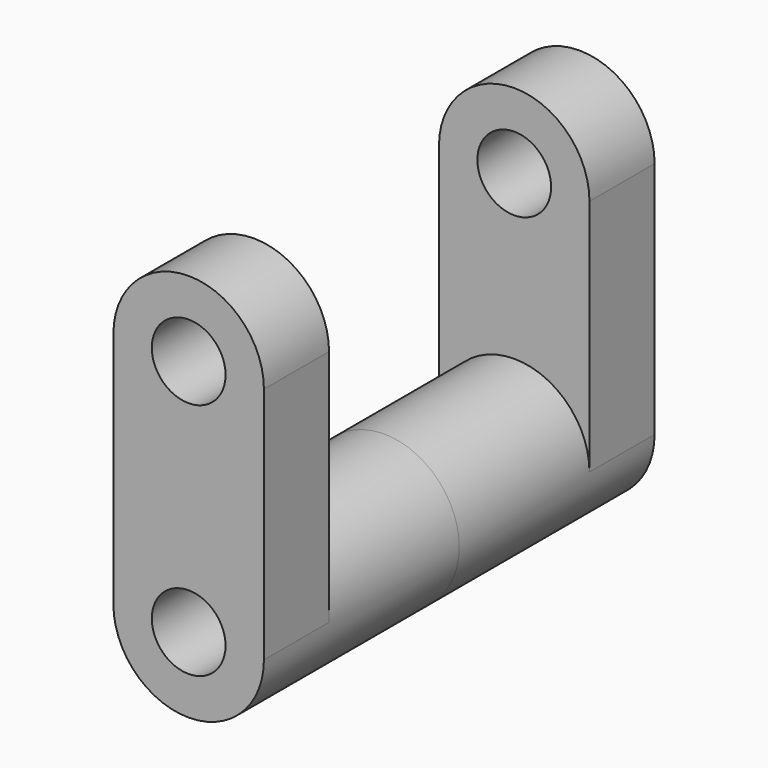
from build123d import *

# Parameters (mm, degrees)
F0_R     = 11.509137
F1_DEPTH = 25.4
F2_DEPTH = 50.8


with BuildPart() as f1:
    # F0 (on Front) → F1 (new body)
    with BuildSketch(Plane.XZ):
        with BuildLine():
            ThreePointArc((-23.485197, 0), (0, -23.485197), (23.485197, 0))
            ThreePointArc((23.485197, 0), (0, 23.485197), (-23.485197, 0))
        make_face()
        Circle(F0_R, mode=Mode.SUBTRACT)
        with BuildLine():
            ThreePointArc((-23.485197, 0), (0, 23.485197), (23.485197, 0))
            Line((23.485197, 0), (23.485197, 74.391678))
            ThreePointArc((23.485197, 74.391678), (0, 50.906481), (-23.485197, 74.391678))
            Line((-23.485197, 74.391678), (-23.485197, 0))
        make_face()
        with BuildLine():
            ThreePointArc((-23.485197, 74.391678), (0, 50.906481), (23.485197, 74.391678))
            ThreePointArc((23.485197, 74.391678), (0, 97.876875), (-23.485197, 74.391678))
        make_face()
        with Locations((0, 74.391678)):
            Circle(F0_R, mode=Mode.SUBTRACT)
    extrude(amount=F1_DEPTH)

    # F0 (on Front) → F2 (join)
    with BuildSketch(Plane.XZ):
        with BuildLine():
            ThreePointArc((-23.485197, 0), (0, -23.485197), (23.485197, 0))
            ThreePointArc((23.485197, 0), (0, 23.485197), (-23.485197, 0))
        make_face()
        Circle(F0_R, mode=Mode.SUBTRACT)
    extrude(amount=-F2_DEPTH)

    # F3: F1 across face


with BuildPart() as f1_1:
    add(f1.part)
    add(f1.part.mirror(Plane(origin=(0, 50.8, 0), x_dir=(1, 0, 0), z_dir=(0, 1, 0))))


solid = f1_1.part
